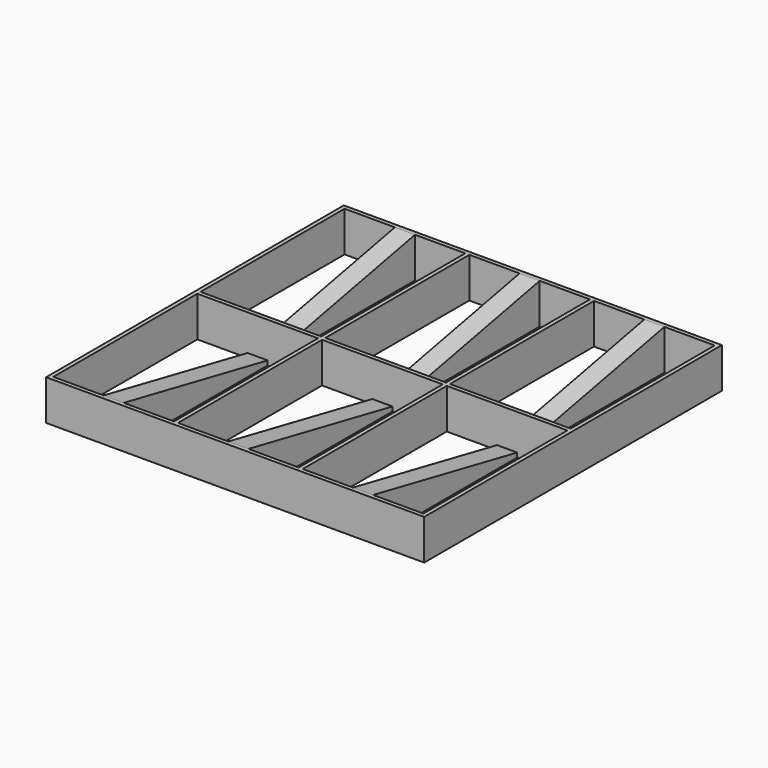
from build123d import *

# Parameters (mm, degrees)
F0_W     = 188
F0_H     = 185
F1_DEPTH = 20
F2_W     = 60
F2_H     = 89.5
F3_DEPTH = 25
F6_W     = 10
F6_H     = 20
F5_W     = 10
F5_H     = 2
F4_W     = 10
F4_H     = 20


with BuildPart() as f1:
    # F0 (on Top) → F1 (new body)
    with BuildSketch(Plane.XY):
        Rectangle(F0_W, F0_H)
    extrude(amount=F1_DEPTH)

    # F2 (on face) → F3 (cut)
    with BuildSketch(Plane.XY.offset(20)):
        with Locations((62, 45.75)):
            Rectangle(F2_W, F2_H)
        with Locations((0, 45.75)):
            Rectangle(F2_W, F2_H)
        with Locations((-62, 45.75)):
            Rectangle(F2_W, F2_H)
        with Locations((62, -45.75)):
            Rectangle(F2_W, F2_H)
        with Locations((0, -45.75)):
            Rectangle(F2_W, F2_H)
        with Locations((-62, -45.75)):
            Rectangle(F2_W, F2_H)
    extrude(amount=-F3_DEPTH, mode=Mode.SUBTRACT)

    # F6 (on face) → F8 section 0
    with BuildSketch(Plane.XZ.offset(-90.5)):
        with Locations((-62, 10)):
            Rectangle(F6_W, F6_H)
    # F5 (on Front) → F8 section 1
    with BuildSketch(Plane.XZ):
        with Locations((-62, 1)):
            Rectangle(F5_W, F5_H)
    loft()

    # F6 (on face) → F9 section 0
    with BuildSketch(Plane.XZ.offset(-90.5)):
        with Locations((0, 10)):
            Rectangle(F6_W, F6_H)
    # F5 (on Front) → F9 section 1
    with BuildSketch(Plane.XZ):
        with Locations((0, 1)):
            Rectangle(F5_W, F5_H)
    loft()

    # F6 (on face) → F10 section 0
    with BuildSketch(Plane.XZ.offset(-90.5)):
        with Locations((62, 10)):
            Rectangle(F6_W, F6_H)
    # F5 (on Front) → F10 section 1
    with BuildSketch(Plane.XZ):
        with Locations((62, 1)):
            Rectangle(F5_W, F5_H)
    loft()

    # F5 (on Front) → F11 section 0
    with BuildSketch(Plane.XZ):
        with Locations((62, 1)):
            Rectangle(F5_W, F5_H)
    # F4 (on face) → F11 section 1
    with BuildSketch(Plane(origin=(0, -90.5, 0), x_dir=(-1, 0, 0), z_dir=(0, 1, 0))):
        with Locations((-62, 10)):
            Rectangle(F4_W, F4_H)
    loft()

    # F4 (on face) → F12 section 0
    with BuildSketch(Plane(origin=(0, -90.5, 0), x_dir=(-1, 0, 0), z_dir=(0, 1, 0))):
        with Locations((0, 10)):
            Rectangle(F4_W, F4_H)
    # F5 (on Front) → F12 section 1
    with BuildSketch(Plane.XZ):
        with Locations((0, 1)):
            Rectangle(F5_W, F5_H)
    loft()

    # F4 (on face) → F13 section 0
    with BuildSketch(Plane(origin=(0, -90.5, 0), x_dir=(-1, 0, 0), z_dir=(0, 1, 0))):
        with Locations((62, 10)):
            Rectangle(F4_W, F4_H)
    # F5 (on Front) → F13 section 1
    with BuildSketch(Plane.XZ):
        with Locations((-62, 1)):
            Rectangle(F5_W, F5_H)
    loft()


solid = f1.part
